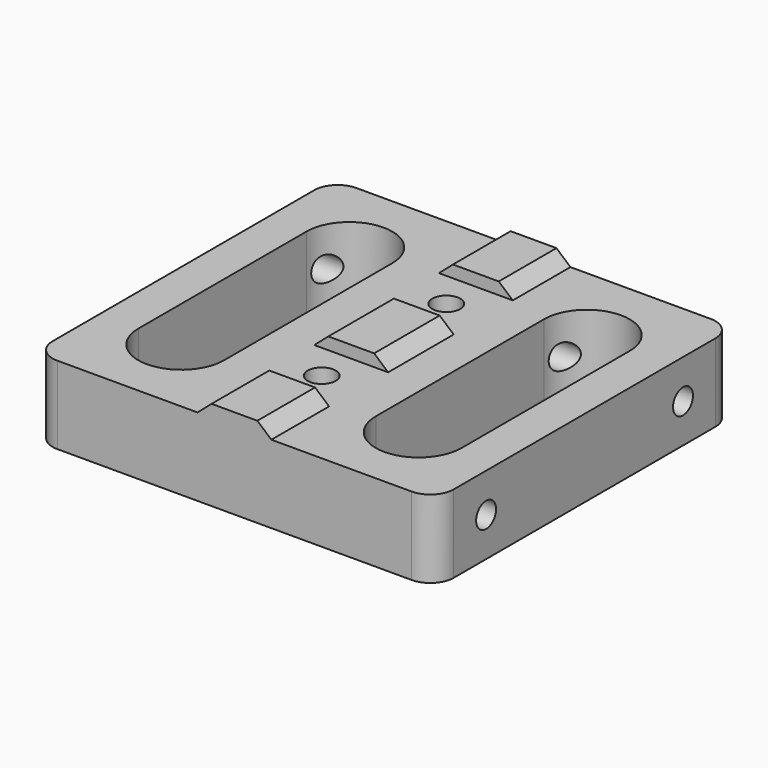
from build123d import *

# Parameters (mm, degrees)
SKETCH_W        = 51.5
SKETCH_H        = 48
PAD_DEPTH       = 10
SKETCH001_R     = 1.6
POCKET_DEPTH    = 51.501
FILLET_R        = 3
PAD001_DEPTH    = 48
SKETCH003_R     = 1.8
POCKET001_DEPTH = 11.561
SKETCH004_R     = 2.8
POCKET002_DEPTH = 3
SKETCH005_W     = 9.48
SKETCH005_H     = 9.48
POCKET003_DEPTH = 1.56
POCKET004_DEPTH = 10.001


with BuildPart() as part:
    # Sketch → Pad (new body)
    with BuildSketch(Plane.XY):
        Rectangle(SKETCH_W, SKETCH_H)
    extrude(amount=PAD_DEPTH)

    # Sketch001 (on Face4 of Pad) → Pocket (cut, through all)
    with BuildSketch(Plane(origin=(-25.75, 0, 0), x_dir=(0, -1, 0), z_dir=(-1, 0, 0))):
        with Locations((-15.8, 5)):
            Circle(SKETCH001_R)
        with Locations((15.8, 5)):
            Circle(SKETCH001_R)
    extrude(amount=-POCKET_DEPTH, mode=Mode.SUBTRACT)

    # Fillet
    fillet_edges = [part.edges().sort_by_distance(p)[0] for p in [
        (25.75, -24, 5),
        (25.75, 24, 5),
        (-25.75, 24, 5),
        (-25.75, -24, 5),
    ]]
    fillet(fillet_edges, radius=FILLET_R)

    # Sketch002 (on Face1 of Fillet) → Pad001 (join)
    with BuildSketch(Plane(origin=(0, 24, 0), x_dir=(-1, 0, 0), z_dir=(0, 1, 0))):
        Polygon((2.94, 11.56), (-2.94, 11.56), (-4.74, 10), (4.74, 10), align=None)
    extrude(amount=-PAD001_DEPTH)

    # Sketch003 (on Face14 of Pad001) → Pocket001 (cut, through all)
    with BuildSketch(Plane.XY.offset(11.56)):
        with Locations((0, 10)):
            Circle(SKETCH003_R)
        with Locations((0, -10)):
            Circle(SKETCH003_R)
    extrude(amount=-POCKET001_DEPTH, mode=Mode.SUBTRACT)

    # Sketch004 (on Face2 of Pocket001) → Pocket002 (cut)
    with BuildSketch(Plane(origin=(0, 0, 0), x_dir=(1, 0, 0), z_dir=(0, 0, -1))):
        with Locations((0, 10)):
            Circle(SKETCH004_R)
        with Locations((0, -10)):
            Circle(SKETCH004_R)
    extrude(amount=-POCKET002_DEPTH, mode=Mode.SUBTRACT)

    # Sketch005 (on Face16 of Pocket002) → Pocket003 (cut)
    with BuildSketch(Plane.XY.offset(11.56)):
        with Locations((0, 10)):
            Rectangle(SKETCH005_W, SKETCH005_H)
        with Locations((0, -10)):
            Rectangle(SKETCH005_W, SKETCH005_H)
    extrude(amount=-POCKET003_DEPTH, mode=Mode.SUBTRACT)

    # Sketch006 (on Face5 of Pocket003) → Pocket004 (cut, through all)
    with BuildSketch(Plane.XY.offset(10)):
        with BuildLine():
            ThreePointArc((-9.74, 13.495), (-15.245, 19), (-20.75, 13.495))
            Line((-20.75, 13.495), (-20.75, -13.495))
            ThreePointArc((-20.75, -13.495), (-15.245, -19), (-9.74, -13.495))
            Line((-9.74, -13.495), (-9.74, 13.495))
        make_face()
        with BuildLine():
            ThreePointArc((20.75, 13.495), (15.245, 19), (9.74, 13.495))
            Line((9.74, 13.495), (9.74, -13.495))
            ThreePointArc((9.74, -13.495), (15.245, -19), (20.75, -13.495))
            Line((20.75, -13.495), (20.75, 13.495))
        make_face()
    extrude(amount=-POCKET004_DEPTH, mode=Mode.SUBTRACT)


solid = part.part
